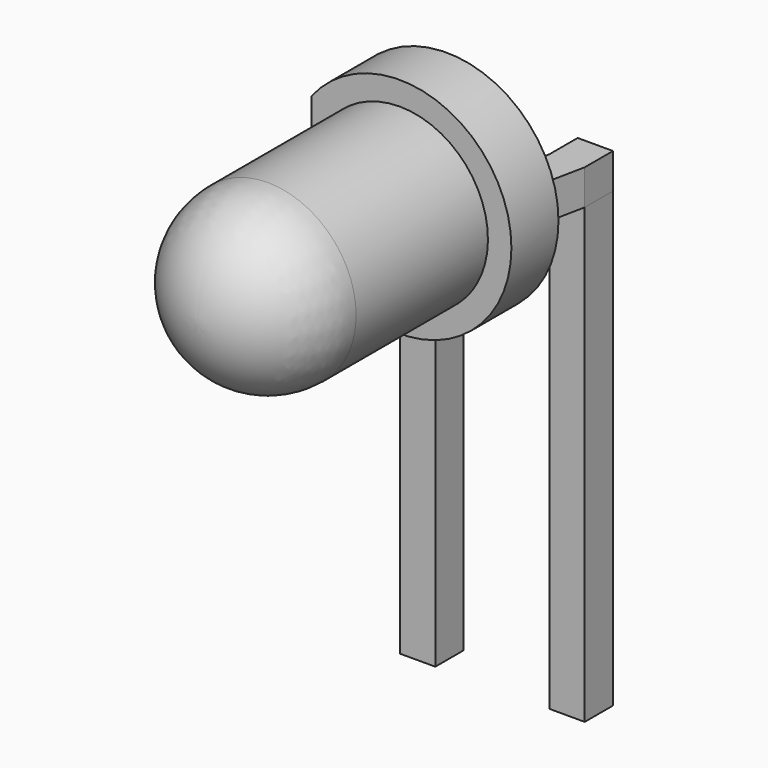
from build123d import *

# Parameters (mm, degrees)
SKETCH_W       = 0.6
SKETCH_H       = 0.6
PAD_DEPTH      = 5.7
PAD_DEPTH_BACK = 2
PAD001_DEPTH   = 0.6
SKETCH002_W    = 2.54
SKETCH002_H    = 0.6
PAD002_DEPTH   = 1
SKETCH004_R    = 1.9
SKETCH004_R_2  = 1.5
PAD003_DEPTH   = 1
SKETCH006_W    = 0.4
SKETCH006_H    = 3.8
POCKET_DEPTH   = 1.001


with BuildPart() as pad:
    # Sketch → Pad (new body, two sides)
    with BuildSketch(Plane.XY) as pad_sk:
        Rectangle(SKETCH_W, SKETCH_H)
        with Locations((2.54, 0)):
            Rectangle(SKETCH_W, SKETCH_H)
    extrude(amount=PAD_DEPTH)
    extrude(pad_sk.sketch, amount=-PAD_DEPTH_BACK)


with BuildPart() as pad001:
    # Sketch001 → Pad001 (new body)
    with BuildSketch(Plane.XY.offset(5.7)):
        Polygon((0.3, 0.3), (-0.3, 0.3), (-0.3, -0.3), (0, -1.77), (0.6, -1.77), (0.3, -0.3), align=None)
        Polygon((2.84, 0.3), (2.24, 0.3), (2.24, -0.3), (1.94, -1.77), (2.54, -1.77), (2.84, -0.3), align=None)
    extrude(amount=PAD001_DEPTH)


with BuildPart() as pad002:
    # Sketch002 → Pad002 (new body)
    with BuildSketch(Plane.XZ.offset(1.77)):
        with Locations((1.27, 6)):
            Rectangle(SKETCH002_W, SKETCH002_H)
    extrude(amount=PAD002_DEPTH)


with BuildPart() as revolution:
    # Sketch003 → Revolution (revolve)
    with BuildSketch(Plane.YZ.offset(1.27)):
        with BuildLine():
            Line((-1.27, 6), (-6.57, 6))
            ThreePointArc((-5.07, 7.5), (-6.13066, 7.06066), (-6.57, 6))
            Line((-1.27, 7.5), (-5.07, 7.5))
            Line((-1.27, 6), (-1.27, 7.5))
        make_face()
    revolve(axis=Axis((1.27, -5.810397, 6), (0, 1, 0)))


with BuildPart() as revolution001:
    # Sketch005 → Revolution001 (revolve)
    with BuildSketch(Plane.YZ.offset(1.27)):
        Polygon((-2.47, 6), (-2.97, 6), (-2.97, 6.5), align=None)
    revolve(axis=Axis((1.27, -3.977201, 6), (0, -1, 0)))


with BuildPart() as pocket:
    # Sketch004 → Pad003 (new body)
    with BuildSketch(Plane.XZ.offset(1.27)):
        with Locations((1.27, 6)):
            Circle(SKETCH004_R)
        with Locations((1.27, 6)):
            Circle(SKETCH004_R_2, mode=Mode.SUBTRACT)
    extrude(amount=PAD003_DEPTH)

    # Sketch006 → Pocket (cut, through all)
    with BuildSketch(Plane.XZ.offset(2.27)):
        with Locations((-0.43, 6)):
            Rectangle(SKETCH006_W, SKETCH006_H)
    extrude(amount=-POCKET_DEPTH, mode=Mode.SUBTRACT)


solid = Compound([pad.part, pad001.part, pad002.part, revolution.part, revolution001.part, pocket.part])
